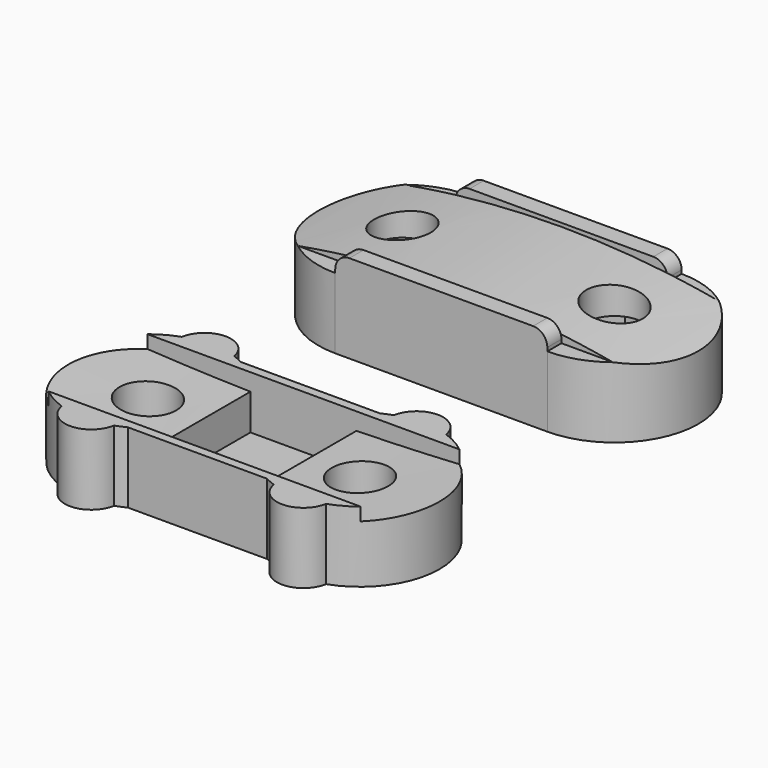
from build123d import *

# Parameters (mm, degrees)
BOX009_W               = 6
BOX009_H               = 7
BOX009_DEPTH           = 3
CYLINDER008_R          = 150
CYLINDER008_DEPTH      = 7
CYLINDER008_ROLL_ANGLE = 90
CYLINDER006_R          = 1.6
CYLINDER006_DEPTH      = 10
CYLINDER007_R          = 1.6
CYLINDER007_DEPTH      = 10
BOX008_W               = 10
BOX008_H               = 10
BOX008_DEPTH           = 10
CYLINDER005_R          = 1.5
CYLINDER005_DEPTH      = 4
CUT003_PLACEMENT_ANGLE = 180
BOX007_W               = 10
BOX007_H               = 10
BOX007_DEPTH           = 10
CYLINDER004_R          = 1.5
CYLINDER004_DEPTH      = 4
CUT002_PLACEMENT_ANGLE = 180
BOX006_W               = 10
BOX006_H               = 10
BOX006_DEPTH           = 10
CYLINDER003_R          = 1.5
CYLINDER003_DEPTH      = 4
BOX005_W               = 10
BOX005_H               = 10
BOX005_DEPTH           = 10
CYLINDER002_R          = 1.5
CYLINDER002_DEPTH      = 4
BOX003_W               = 12
BOX003_H               = 0.5
BOX003_DEPTH           = 1
BOX004_W               = 12
BOX004_H               = 0.5
BOX004_DEPTH           = 1
BOX002_W               = 12
BOX002_H               = 1
BOX002_DEPTH           = 4
BOX001_W               = 12
BOX001_H               = 1
BOX001_DEPTH           = 4
CYLINDER001_R          = 4.5
CYLINDER001_DEPTH      = 4
CYLINDER_R             = 4.5
CYLINDER_DEPTH         = 4
BOX_W                  = 12
BOX_H                  = 8
BOX_DEPTH              = 1
CYLINDER012_R          = 1.6
CYLINDER012_DEPTH      = 10
CYLINDER013_R          = 1.6
CYLINDER013_DEPTH      = 10
EXTRUDE_DEPTH          = 3
EXTRUDE001_DEPTH       = 3
CYLINDER014_R          = 50
CYLINDER014_DEPTH      = 7.5
CYLINDER014_ROLL_ANGLE = 90
CYLINDER015_R          = 51
CYLINDER015_DEPTH      = 7.5
CYLINDER015_ROLL_ANGLE = 90
BOX013_W               = 317
BOX013_H               = 10
BOX013_DEPTH           = 300
CYLINDER011_R          = 50
CYLINDER011_DEPTH      = 7.5
CYLINDER011_ROLL_ANGLE = 90
CYLINDER009_R          = 4.75
CYLINDER009_DEPTH      = 4
CYLINDER010_R          = 4.75
CYLINDER010_DEPTH      = 4
BOX011_W               = 12
BOX011_H               = 1
BOX011_DEPTH           = 2
BOX012_W               = 12
BOX012_H               = 1
BOX012_DEPTH           = 2
BOX010_W               = 12
BOX010_H               = 9.5
BOX010_DEPTH           = 4
FILLET_R               = 0.8
CUT012_PLACEMENT_ANGLE = 180


with BuildPart() as box009:
    # Box009 → Box009 (new body)
    with BuildSketch(Plane(origin=(3, -3.5, 1), x_dir=(1, 0, 0), z_dir=(0, 0, 1))):
        with Locations((3, 3.5)):
            Rectangle(BOX009_W, BOX009_H)
    extrude(amount=BOX009_DEPTH)


with BuildPart() as cylinder008:
    # Cylinder008 → Cylinder008 (new body)
    with BuildSketch(Plane.XY):
        Circle(CYLINDER008_R)
    extrude(amount=CYLINDER008_DEPTH)


with BuildPart() as cylinder008_1:
    # Cylinder008 roll: moved
    add(cylinder008.part.rotate(Axis((0, 0, 0), (1, 0, 0)), CYLINDER008_ROLL_ANGLE))


with BuildPart() as cylinder008_2:
    # Cylinder008 placement: moved
    add(cylinder008_1.part.moved(Location((6, 3.5, 153))))


with BuildPart() as cylinder006:
    # Cylinder006 → Cylinder006 (new body)
    with BuildSketch(Plane.XY):
        Circle(CYLINDER006_R)
    extrude(amount=CYLINDER006_DEPTH)


with BuildPart() as fusion004:
    # Cylinder007 → Cylinder007 (new body)
    with BuildSketch(Plane(origin=(12, 0, 0), x_dir=(1, 0, 0), z_dir=(0, 0, 1))):
        Circle(CYLINDER007_R)
    extrude(amount=CYLINDER007_DEPTH)

    # Fusion004: union Cylinder006
    add(cylinder006.part)


with BuildPart() as box008:
    # Box008 → Box008 (new body)
    with BuildSketch(Plane(origin=(-5, 0, 0), x_dir=(1, 0, 0), z_dir=(0, 0, 1))):
        with Locations((5, 5)):
            Rectangle(BOX008_W, BOX008_H)
    extrude(amount=BOX008_DEPTH)


with BuildPart() as cut003:
    # Cylinder005 → Cylinder005 (new body)
    with BuildSketch(Plane.XY):
        Circle(CYLINDER005_R)
    extrude(amount=CYLINDER005_DEPTH)

    # Cut003: cut Box008
    add(box008.part, mode=Mode.SUBTRACT)


with BuildPart() as cut003_1:
    # Cut003 placement: moved
    add(cut003.part.moved(Location((12, 4, 0))).rotate(Axis((12, 4, 0), (0, 0, 1)), CUT003_PLACEMENT_ANGLE))


with BuildPart() as box007:
    # Box007 → Box007 (new body)
    with BuildSketch(Plane(origin=(-5, 0, 0), x_dir=(1, 0, 0), z_dir=(0, 0, 1))):
        with Locations((5, 5)):
            Rectangle(BOX007_W, BOX007_H)
    extrude(amount=BOX007_DEPTH)


with BuildPart() as cut002:
    # Cylinder004 → Cylinder004 (new body)
    with BuildSketch(Plane.XY):
        Circle(CYLINDER004_R)
    extrude(amount=CYLINDER004_DEPTH)

    # Cut002: cut Box007
    add(box007.part, mode=Mode.SUBTRACT)


with BuildPart() as cut002_1:
    # Cut002 placement: moved
    add(cut002.part.moved(Location((0, 4, 0))).rotate(Axis((0, 4, 0), (0, 0, 1)), CUT002_PLACEMENT_ANGLE))


with BuildPart() as box006:
    # Box006 → Box006 (new body)
    with BuildSketch(Plane(origin=(-5, 0, 0), x_dir=(1, 0, 0), z_dir=(0, 0, 1))):
        with Locations((5, 5)):
            Rectangle(BOX006_W, BOX006_H)
    extrude(amount=BOX006_DEPTH)


with BuildPart() as cut001:
    # Cylinder003 → Cylinder003 (new body)
    with BuildSketch(Plane.XY):
        Circle(CYLINDER003_R)
    extrude(amount=CYLINDER003_DEPTH)

    # Cut001: cut Box006
    add(box006.part, mode=Mode.SUBTRACT)


with BuildPart() as cut001_1:
    # Cut001 placement: moved
    add(cut001.part.moved(Location((12, -4, 0))))


with BuildPart() as box005:
    # Box005 → Box005 (new body)
    with BuildSketch(Plane(origin=(-5, 0, 0), x_dir=(1, 0, 0), z_dir=(0, 0, 1))):
        with Locations((5, 5)):
            Rectangle(BOX005_W, BOX005_H)
    extrude(amount=BOX005_DEPTH)


with BuildPart() as cut:
    # Cylinder002 → Cylinder002 (new body)
    with BuildSketch(Plane.XY):
        Circle(CYLINDER002_R)
    extrude(amount=CYLINDER002_DEPTH)

    # Cut: cut Box005
    add(box005.part, mode=Mode.SUBTRACT)


with BuildPart() as cut_1:
    # Cut placement: moved
    add(cut.part.moved(Location((0, -4, 0))))


with BuildPart() as box003:
    # Box003 → Box003 (new body)
    with BuildSketch(Plane(origin=(0, 3.5, 3), x_dir=(1, 0, 0), z_dir=(0, 0, 1))):
        with Locations((6, 0.25)):
            Rectangle(BOX003_W, BOX003_H)
    extrude(amount=BOX003_DEPTH)


with BuildPart() as box004:
    # Box004 → Box004 (new body)
    with BuildSketch(Plane(origin=(0, -4, 3), x_dir=(1, 0, 0), z_dir=(0, 0, 1))):
        with Locations((6, 0.25)):
            Rectangle(BOX004_W, BOX004_H)
    extrude(amount=BOX004_DEPTH)


with BuildPart() as box002:
    # Box002 → Box002 (new body)
    with BuildSketch(Plane(origin=(0, 3, 0), x_dir=(1, 0, 0), z_dir=(0, 0, 1))):
        with Locations((6, 0.5)):
            Rectangle(BOX002_W, BOX002_H)
    extrude(amount=BOX002_DEPTH)


with BuildPart() as box001:
    # Box001 → Box001 (new body)
    with BuildSketch(Plane(origin=(0, -4, 0), x_dir=(1, 0, 0), z_dir=(0, 0, 1))):
        with Locations((6, 0.5)):
            Rectangle(BOX001_W, BOX001_H)
    extrude(amount=BOX001_DEPTH)


with BuildPart() as cylinder001:
    # Cylinder001 → Cylinder001 (new body)
    with BuildSketch(Plane(origin=(12, 0, 0), x_dir=(1, 0, 0), z_dir=(0, 0, 1))):
        Circle(CYLINDER001_R)
    extrude(amount=CYLINDER001_DEPTH)


with BuildPart() as cylinder:
    # Cylinder → Cylinder (new body)
    with BuildSketch(Plane.XY):
        Circle(CYLINDER_R)
    extrude(amount=CYLINDER_DEPTH)


with BuildPart() as cut006:
    # Box → Box (new body)
    with BuildSketch(Plane(origin=(0, -4, 0), x_dir=(1, 0, 0), z_dir=(0, 0, 1))):
        with Locations((6, 4)):
            Rectangle(BOX_W, BOX_H)
    extrude(amount=BOX_DEPTH)

    # Fusion: union Cylinder001, Cylinder
    add(cylinder001.part)
    add(cylinder.part)

    # Fusion001: union Box002, Box001
    add(box002.part)
    add(box001.part)

    # Fusion002: union Box003, Box004
    add(box003.part)
    add(box004.part)

    # Fusion003: union Cut003, Cut002, Cut001, Cut
    add(cut003_1.part)
    add(cut002_1.part)
    add(cut001_1.part)
    add(cut_1.part)

    # Cut004: cut Fusion004
    add(fusion004.part, mode=Mode.SUBTRACT)

    # Cut005: cut Cylinder008
    add(cylinder008_2.part, mode=Mode.SUBTRACT)

    # Cut006: cut Box009
    add(box009.part, mode=Mode.SUBTRACT)


with BuildPart() as cylinder012:
    # Cylinder012 → Cylinder012 (new body)
    with BuildSketch(Plane(origin=(0, -18, -9.2), x_dir=(1, 0, 0), z_dir=(0, 0, 1))):
        Circle(CYLINDER012_R)
    extrude(amount=CYLINDER012_DEPTH)


with BuildPart() as fusion007:
    # Cylinder013 → Cylinder013 (new body)
    with BuildSketch(Plane(origin=(12, -18, -9.2), x_dir=(1, 0, 0), z_dir=(0, 0, 1))):
        Circle(CYLINDER013_R)
    extrude(amount=CYLINDER013_DEPTH)

    # Fusion007: union Cylinder012
    add(cylinder012.part)


with BuildPart() as fusion007_1:
    # Fusion007 placement: moved
    add(fusion007.part.moved(Location((0, 0, 5))))


with BuildPart() as extrude_body:
    # Face → Extrude (new body)
    with BuildSketch(Plane(origin=(0, 0, 0), x_dir=(0, -1, 0), z_dir=(0, 0, -1))):
        Polygon((2.684679, 1.55), (0, 3.1), (-2.684679, 1.55), (-2.684679, -1.55), (0, -3.1), (2.684679, -1.55), align=None)
    extrude(amount=-EXTRUDE_DEPTH)


with BuildPart() as extrude_body_1:
    # Extrude placement: moved
    add(extrude_body.part.moved(Location((12, -18, 1))))


with BuildPart() as fusion011:
    # Face → Extrude001 (new body)
    with BuildSketch(Plane(origin=(0, 0, 0), x_dir=(0, -1, 0), z_dir=(0, 0, -1))):
        Polygon((2.684679, 1.55), (0, 3.1), (-2.684679, 1.55), (-2.684679, -1.55), (0, -3.1), (2.684679, -1.55), align=None)
    extrude(amount=-EXTRUDE001_DEPTH)


with BuildPart() as fusion011_1:
    # Extrude001 placement: moved
    add(fusion011.part.moved(Location((0, -18, 1))))

    # Fusion011: union Extrude body
    add(extrude_body_1.part)


with BuildPart() as cylinder014:
    # Cylinder014 → Cylinder014 (new body)
    with BuildSketch(Plane.XY):
        Circle(CYLINDER014_R)
    extrude(amount=CYLINDER014_DEPTH)


with BuildPart() as cylinder014_1:
    # Cylinder014 roll: moved
    add(cylinder014.part.rotate(Axis((0, 0, 0), (1, 0, 0)), CYLINDER014_ROLL_ANGLE))


with BuildPart() as cylinder014_2:
    # Cylinder014 placement: moved
    add(cylinder014_1.part.moved(Location((6, -14.25, 49.2))))


with BuildPart() as cut009:
    # Cylinder015 → Cylinder015 (new body)
    with BuildSketch(Plane.XY):
        Circle(CYLINDER015_R)
    extrude(amount=CYLINDER015_DEPTH)


with BuildPart() as cut009_1:
    # Cylinder015 roll: moved
    add(cut009.part.rotate(Axis((0, 0, 0), (1, 0, 0)), CYLINDER015_ROLL_ANGLE))


with BuildPart() as cut009_2:
    # Cylinder015 placement: moved
    add(cut009_1.part.moved(Location((6, -14.25, 49.2))))

    # Cut009: cut Cylinder014
    add(cylinder014_2.part, mode=Mode.SUBTRACT)


with BuildPart() as box013:
    # Box013 → Box013 (new body)
    with BuildSketch(Plane(origin=(-150, -22, 0), x_dir=(1, 0, 0), z_dir=(0, 0, 1))):
        with Locations((158.5, 5)):
            Rectangle(BOX013_W, BOX013_H)
    extrude(amount=BOX013_DEPTH)


with BuildPart() as cut008:
    # Cylinder011 → Cylinder011 (new body)
    with BuildSketch(Plane.XY):
        Circle(CYLINDER011_R)
    extrude(amount=CYLINDER011_DEPTH)


with BuildPart() as cut008_1:
    # Cylinder011 roll: moved
    add(cut008.part.rotate(Axis((0, 0, 0), (1, 0, 0)), CYLINDER011_ROLL_ANGLE))


with BuildPart() as cut008_2:
    # Cylinder011 placement: moved
    add(cut008_1.part.moved(Location((6, -14.25, 49.2))))

    # Cut008: cut Box013
    add(box013.part, mode=Mode.SUBTRACT)


with BuildPart() as cylinder009:
    # Cylinder009 → Cylinder009 (new body)
    with BuildSketch(Plane(origin=(12, -18, 0), x_dir=(1, 0, 0), z_dir=(0, 0, 1))):
        Circle(CYLINDER009_R)
    extrude(amount=CYLINDER009_DEPTH)


with BuildPart() as cylinder010:
    # Cylinder010 → Cylinder010 (new body)
    with BuildSketch(Plane(origin=(0, -18, 0), x_dir=(1, 0, 0), z_dir=(0, 0, 1))):
        Circle(CYLINDER010_R)
    extrude(amount=CYLINDER010_DEPTH)


with BuildPart() as box011:
    # Box011 → Box011 (new body)
    with BuildSketch(Plane(origin=(0, -22.75, -1), x_dir=(1, 0, 0), z_dir=(0, 0, 1))):
        with Locations((6, 0.5)):
            Rectangle(BOX011_W, BOX011_H)
    extrude(amount=BOX011_DEPTH)


with BuildPart() as box012:
    # Box012 → Box012 (new body)
    with BuildSketch(Plane(origin=(0, -14.25, -1), x_dir=(1, 0, 0), z_dir=(0, 0, 1))):
        with Locations((6, 0.5)):
            Rectangle(BOX012_W, BOX012_H)
    extrude(amount=BOX012_DEPTH)


with BuildPart() as cut012:
    # Box010 → Box010 (new body)
    with BuildSketch(Plane(origin=(0, -22.75, 0), x_dir=(1, 0, 0), z_dir=(0, 0, 1))):
        with Locations((6, 4.75)):
            Rectangle(BOX010_W, BOX010_H)
    extrude(amount=BOX010_DEPTH)

    # Fusion008: union Box011, Box012
    add(box011.part)
    add(box012.part)

    # Fillet
    fillet_edges = [cut012.edges().sort_by_distance(p)[0] for p in [
        (0, -13.75, -1),
        (12, -13.75, -1),
        (0, -22.25, -1),
        (12, -22.25, -1),
    ]]
    fillet(fillet_edges, radius=FILLET_R)

    # Fusion009: union Cylinder009, Cylinder010
    add(cylinder009.part)
    add(cylinder010.part)

    # Fusion010: union Cut008
    add(cut008_2.part)

    # Cut010: cut Cut009
    add(cut009_2.part, mode=Mode.SUBTRACT)

    # Cut011: cut Fusion011
    add(fusion011_1.part, mode=Mode.SUBTRACT)

    # Cut012: cut Fusion007
    add(fusion007_1.part, mode=Mode.SUBTRACT)


with BuildPart() as cut012_1:
    # Cut012 placement: moved
    add(cut012.part.moved(Location((0, 0, 4))).rotate(Axis((0, 0, 4), (1, 0, 0)), CUT012_PLACEMENT_ANGLE))


solid = Compound([cut006.part, cut012_1.part])
